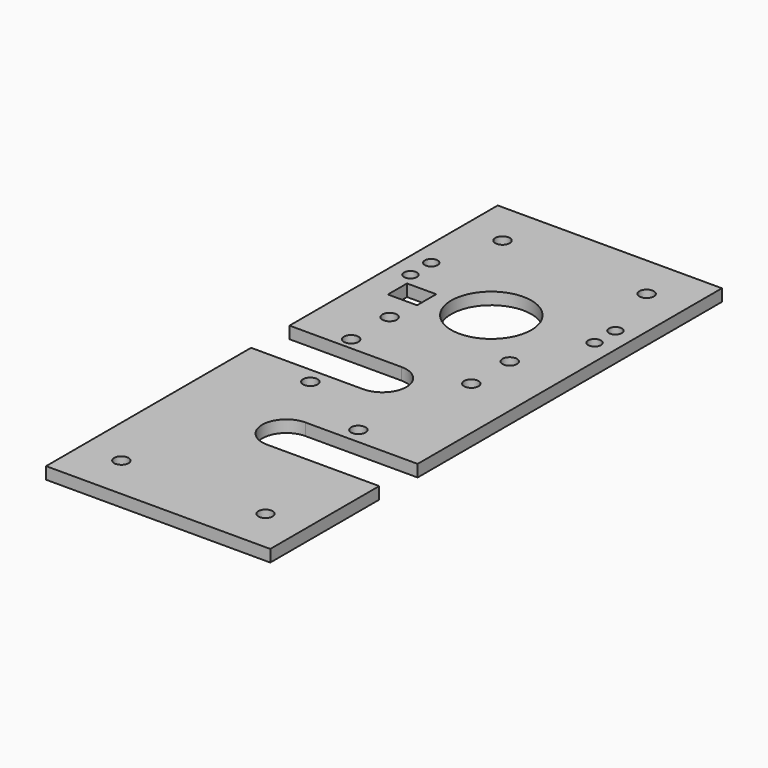
from build123d import *

# Parameters (mm, degrees)
SKETCH_R   = 10
SKETCH_R_2 = 1.8
SKETCH_R_3 = 1.6
SKETCH_W   = 7.288706
SKETCH_H   = 5.97866
PAD_DEPTH  = 3


with BuildPart() as part:
    # Sketch → Pad (new body)
    with BuildSketch(Plane.XY):
        with BuildLine():
            Line((-28, 141), (28, 141))
            Line((28, 141), (28, 46))
            Line((0, 46), (28, 46))
            ThreePointArc((0, 46), (-6, 40), (0, 34))
            Line((28, 34), (0, 34))
            Line((28, 34), (28, 0))
            Line((28, 0), (-28, 0))
            Line((-28, 0), (-28, 64))
            Line((0, 64), (-28, 64))
            ThreePointArc((0, 64), (6, 70), (0, 76))
            Line((-28, 76), (0, 76))
            Line((-28, 76), (-28, 141))
        make_face()
        with Locations((0, 104)):
            Circle(SKETCH_R, mode=Mode.SUBTRACT)
        with Locations((-18, 130)):
            Circle(SKETCH_R_2, mode=Mode.SUBTRACT)
        with Locations((18, 130)):
            Circle(SKETCH_R_2, mode=Mode.SUBTRACT)
        with Locations((-18, 11)):
            Circle(SKETCH_R_2, mode=Mode.SUBTRACT)
        with Locations((18, 11)):
            Circle(SKETCH_R_2, mode=Mode.SUBTRACT)
        with Locations((-23, 114)):
            Circle(SKETCH_R_3, mode=Mode.SUBTRACT)
        with Locations((-23, 107.5)):
            Circle(SKETCH_R_3, mode=Mode.SUBTRACT)
        with Locations((23, 114)):
            Circle(SKETCH_R_3, mode=Mode.SUBTRACT)
        with Locations((23, 107.5)):
            Circle(SKETCH_R_3, mode=Mode.SUBTRACT)
        with Locations((-10, 60)):
            Circle(SKETCH_R_2, mode=Mode.SUBTRACT)
        with Locations((10, 50)):
            Circle(SKETCH_R_2, mode=Mode.SUBTRACT)
        with Locations((-15, 91)):
            Circle(SKETCH_R_2, mode=Mode.SUBTRACT)
        with Locations((-15, 79)):
            Circle(SKETCH_R_2, mode=Mode.SUBTRACT)
        with Locations((15, 91)):
            Circle(SKETCH_R_2, mode=Mode.SUBTRACT)
        with Locations((15, 79)):
            Circle(SKETCH_R_2, mode=Mode.SUBTRACT)
        with Locations((-17.587784, 101.235753)):
            Rectangle(SKETCH_W, SKETCH_H, mode=Mode.SUBTRACT)
    extrude(amount=PAD_DEPTH)


solid = part.part
